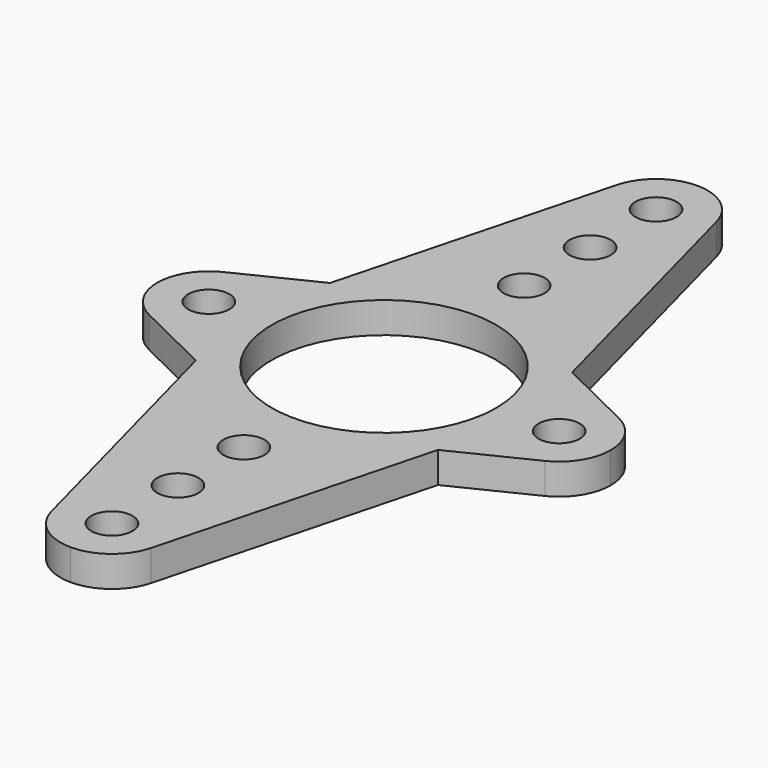
from build123d import *

# Parameters (mm, degrees)
F0_R     = 2
F0_R_2   = 10.9
F1_DEPTH = 3


with BuildPart() as f1:
    # F0 (on Top) → F1 (new body)
    with BuildSketch(Plane.XY):
        with BuildLine():
            Line((-4.833788, 34.278474), (-11.746254, 8.143105))
            Line((-11.746254, 8.143105), (-19.200455, 4.489766))
            ThreePointArc((-19.200455, 4.489766), (-21.242775, 2.645536), (-22, 0))
            ThreePointArc((-22, 0), (-21.242775, -2.645536), (-19.200455, -4.489766))
            Line((-19.200455, -4.489766), (-11.746254, -8.143105))
            Line((-11.746254, -8.143105), (-4.833788, -34.278474))
            ThreePointArc((-4.833788, -34.278474), (-3.050215, -36.961841), (0, -38))
            ThreePointArc((0, -38), (3.050215, -36.961841), (4.833788, -34.278474))
            Line((4.833788, -34.278474), (11.746254, -8.143105))
            Line((11.746254, -8.143105), (19.200455, -4.489766))
            ThreePointArc((19.200455, -4.489766), (21.242775, -2.645536), (22, 0))
            ThreePointArc((22, 0), (21.242775, 2.645536), (19.200455, 4.489766))
            Line((19.200455, 4.489766), (11.746254, 8.143105))
            Line((11.746254, 8.143105), (4.833788, 34.278474))
            ThreePointArc((4.833788, 34.278474), (3.050215, 36.961841), (0, 38))
            ThreePointArc((0, 38), (-3.050215, 36.961841), (-4.833788, 34.278474))
        make_face()
        with Locations((0, -33)):
            Circle(F0_R, mode=Mode.SUBTRACT)
        with Locations((0, -25)):
            Circle(F0_R, mode=Mode.SUBTRACT)
        with Locations((0, -17)):
            Circle(F0_R, mode=Mode.SUBTRACT)
        with Locations((-17, 0)):
            Circle(F0_R, mode=Mode.SUBTRACT)
        Circle(F0_R_2, mode=Mode.SUBTRACT)
        with Locations((0, 17)):
            Circle(F0_R, mode=Mode.SUBTRACT)
        with Locations((17, 0)):
            Circle(F0_R, mode=Mode.SUBTRACT)
        with Locations((0, 25)):
            Circle(F0_R, mode=Mode.SUBTRACT)
        with Locations((0, 33)):
            Circle(F0_R, mode=Mode.SUBTRACT)
    extrude(amount=F1_DEPTH)


solid = f1.part
